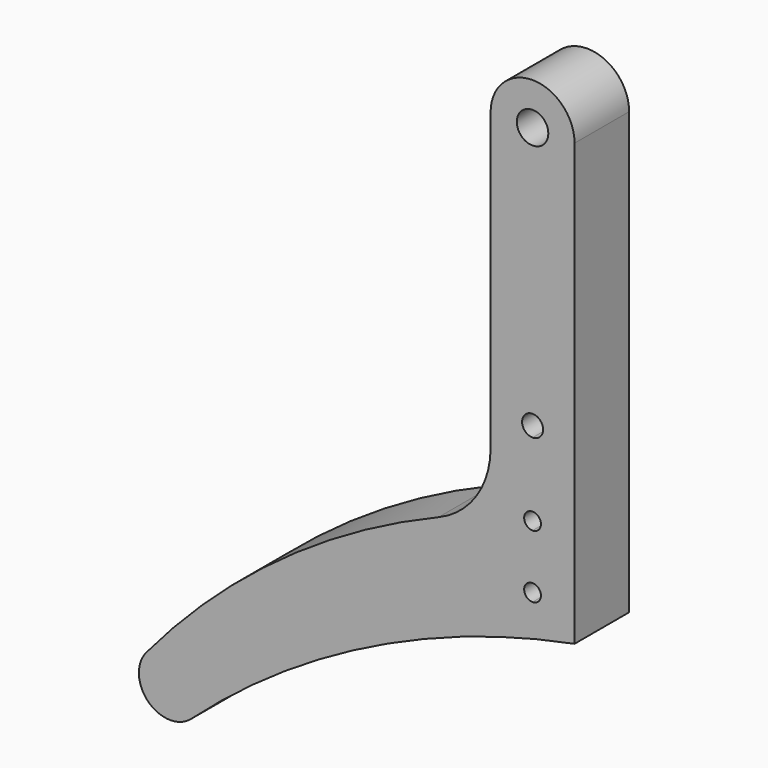
from build123d import *

# Parameters (mm, degrees)
F0_R     = 1.5
F1_DEPTH = 6.5
F2_DEPTH = 6.5


with BuildPart() as f1:
    # F0 (on Front) → F1 (new body)
    with BuildSketch(Plane.XZ):
        with BuildLine():
            ThreePointArc((-4, 38), (0, 34), (4, 38))
            ThreePointArc((4, 38), (0, 42), (-4, 38))
        make_face()
        with Locations((0, 38)):
            Circle(F0_R, mode=Mode.SUBTRACT)
        with BuildLine():
            Line((4, 0), (4, 38))
            ThreePointArc((4, 38), (0, 34), (-4, 38))
            Line((-4, 38), (-4, 9.8098293997))
            ThreePointArc((-4, 9.8098293997), (-5.3527325768, 5.3585558961), (-8.953458951, 2.4126280616))
            ThreePointArc((-8.953458951, 2.4126280616), (-24.1243553105, -6.1033636981), (-36.8165220119, -18.0024021645))
            ThreePointArc((-36.8165220119, -18.0024021645), (-33.4916468302, -17.107981873), (-31.515849725, -19.92773513))
            ThreePointArc((-31.515849725, -19.92773513), (-31.7751671266, -21.1478412299), (-32.5082889883, -22.1570175008))
            ThreePointArc((-32.5082889883, -22.1570175008), (-15.4946272743, -10.5842718075), (4, -4))
            Line((4, -4), (0, -4))
            ThreePointArc((0, -4), (-4, 0), (0, 4))
            ThreePointArc((0, 4), (2.8284271247, 2.8284271247), (4, 0))
        make_face()
        with BuildLine():
            ThreePointArc((0.8, 5), (0.5656854249, 4.4343145751), (0, 4.2))
            ThreePointArc((0, 4.2), (-0.8, 5), (0, 5.8))
            ThreePointArc((0, 5.8), (0.5656854249, 5.5656854249), (0.8, 5))
        make_face(mode=Mode.SUBTRACT)
        with BuildLine():
            ThreePointArc((1, 13), (0.7071067812, 12.2928932188), (0, 12))
            ThreePointArc((0, 12), (-1, 13), (0, 14))
            ThreePointArc((0, 14), (0.7071067812, 13.7071067812), (1, 13))
        make_face(mode=Mode.SUBTRACT)
        with BuildLine():
            Line((4, -4), (4, 0))
            ThreePointArc((4, 0), (2.8284271247, -2.8284271247), (0, -4))
            Line((0, -4), (4, -4))
        make_face()
        with BuildLine():
            Line((0, 0), (4, 0))
            ThreePointArc((4, 0), (2.8284271247, 2.8284271247), (0, 4))
            Line((0, 4), (0, 0))
        make_face()
        with BuildLine():
            ThreePointArc((0, -4), (2.8284271247, -2.8284271247), (4, 0))
            Line((4, 0), (0, 0))
            Line((0, 0), (0, -0.2))
            ThreePointArc((0, -0.2), (0.5656854249, -0.4343145751), (0.8, -1))
            ThreePointArc((0.8, -1), (0.5656854249, -1.5656854249), (0, -1.8))
            Line((0, -1.8), (0, -4))
        make_face()
        with BuildLine():
            ThreePointArc((-36.8165220119, -18.0024021645), (-36.5983207916, -22.0872059579), (-32.5082889883, -22.1570175008))
            ThreePointArc((-32.5082889883, -22.1570175008), (-31.7751671266, -21.1478412299), (-31.515849725, -19.92773513))
            ThreePointArc((-31.515849725, -19.92773513), (-33.4916468302, -17.107981873), (-36.8165220119, -18.0024021645))
        make_face()
        with BuildLine():
            ThreePointArc((0, 4), (-4, 0), (0, -4))
            Line((0, -4), (0, -1.8))
            ThreePointArc((0, -1.8), (-0.8, -1), (0, -0.2))
            Line((0, -0.2), (0, 0))
            Line((0, 0), (0, 4))
        make_face()
    extrude(amount=F1_DEPTH)


with BuildPart() as f2:
    # F0 (on Front) → F2 (new body)
    with BuildSketch(Plane.XZ):
        with BuildLine():
            ThreePointArc((-4, 38), (0, 34), (4, 38))
            ThreePointArc((4, 38), (0, 42), (-4, 38))
        make_face()
        with Locations((0, 38)):
            Circle(F0_R, mode=Mode.SUBTRACT)
        with BuildLine():
            Line((4, 0), (4, 38))
            ThreePointArc((4, 38), (0, 34), (-4, 38))
            Line((-4, 38), (-4, 9.8098293997))
            ThreePointArc((-4, 9.8098293997), (-5.3527325768, 5.3585558961), (-8.953458951, 2.4126280616))
            ThreePointArc((-8.953458951, 2.4126280616), (-24.1243553105, -6.1033636981), (-36.8165220119, -18.0024021645))
            ThreePointArc((-36.8165220119, -18.0024021645), (-33.4916468302, -17.107981873), (-31.515849725, -19.92773513))
            ThreePointArc((-31.515849725, -19.92773513), (-31.7751671266, -21.1478412299), (-32.5082889883, -22.1570175008))
            ThreePointArc((-32.5082889883, -22.1570175008), (-15.4946272743, -10.5842718075), (4, -4))
            Line((4, -4), (0, -4))
            ThreePointArc((0, -4), (-4, 0), (0, 4))
            ThreePointArc((0, 4), (2.8284271247, 2.8284271247), (4, 0))
        make_face()
        with BuildLine():
            ThreePointArc((0.8, 5), (0.5656854249, 4.4343145751), (0, 4.2))
            ThreePointArc((0, 4.2), (-0.8, 5), (0, 5.8))
            ThreePointArc((0, 5.8), (0.5656854249, 5.5656854249), (0.8, 5))
        make_face(mode=Mode.SUBTRACT)
        with BuildLine():
            ThreePointArc((1, 13), (0.7071067812, 12.2928932188), (0, 12))
            ThreePointArc((0, 12), (-1, 13), (0, 14))
            ThreePointArc((0, 14), (0.7071067812, 13.7071067812), (1, 13))
        make_face(mode=Mode.SUBTRACT)
        with BuildLine():
            ThreePointArc((0, -4), (2.8284271247, -2.8284271247), (4, 0))
            Line((4, 0), (0, 0))
            Line((0, 0), (0, -0.2))
            ThreePointArc((0, -0.2), (0.5656854249, -0.4343145751), (0.8, -1))
            ThreePointArc((0.8, -1), (0.5656854249, -1.5656854249), (0, -1.8))
            Line((0, -1.8), (0, -4))
        make_face()
        with BuildLine():
            Line((4, -4), (4, 0))
            ThreePointArc((4, 0), (2.8284271247, -2.8284271247), (0, -4))
            Line((0, -4), (4, -4))
        make_face()
        with BuildLine():
            ThreePointArc((0, 4), (-4, 0), (0, -4))
            Line((0, -4), (0, -1.8))
            ThreePointArc((0, -1.8), (-0.8, -1), (0, -0.2))
            Line((0, -0.2), (0, 0))
            Line((0, 0), (0, 4))
        make_face()
        with BuildLine():
            Line((0, 0), (4, 0))
            ThreePointArc((4, 0), (2.8284271247, 2.8284271247), (0, 4))
            Line((0, 4), (0, 0))
        make_face()
        with BuildLine():
            ThreePointArc((-36.8165220119, -18.0024021645), (-36.5983207916, -22.0872059579), (-32.5082889883, -22.1570175008))
            ThreePointArc((-32.5082889883, -22.1570175008), (-31.7751671266, -21.1478412299), (-31.515849725, -19.92773513))
            ThreePointArc((-31.515849725, -19.92773513), (-33.4916468302, -17.107981873), (-36.8165220119, -18.0024021645))
        make_face()
    extrude(amount=F2_DEPTH)


solid = Compound([f1.part, f2.part])
